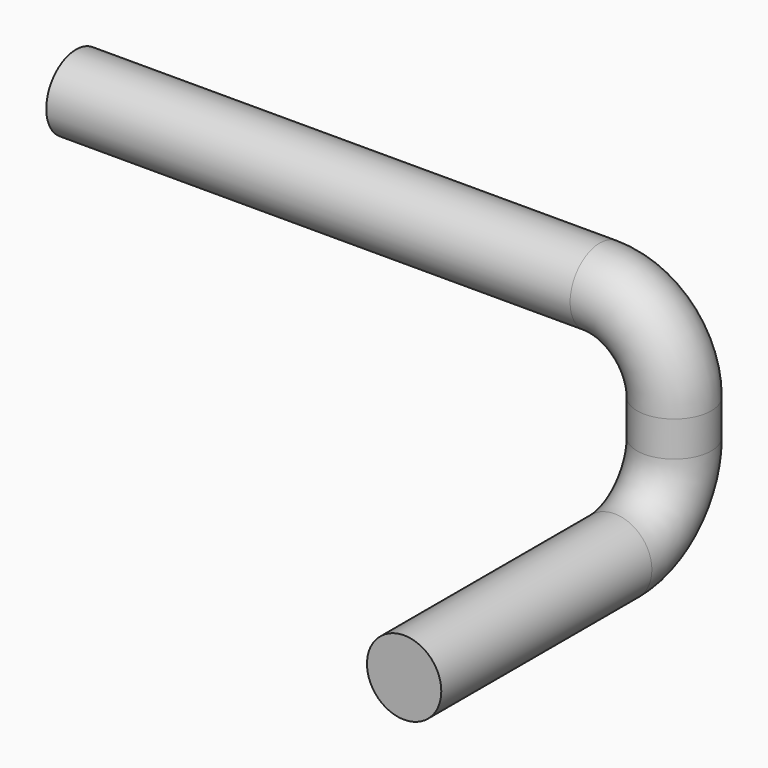
from build123d import *

# Parameters (mm, degrees)
F3_R = 10


with BuildPart() as f4:
    # F4: sweep along a path in F0, F2
    with BuildLine(Plane.YZ) as f4_path:
        Line((0, 0), (70.812, 0))
        ThreePointArc((70.812, 0), (84.9541356237, 5.8578643763), (90.812, 20))
        Line((90.812, 20), (90.812, 29.5))
    with BuildLine(Plane.XZ.offset(-90.812)) as f4_path_2:
        ThreePointArc((0, 29.5), (-5.8578643763, 43.6421356237), (-20, 49.5))
        Line((-20, 49.5), (-160.917, 49.5))
    # F3 (on Front) → F4 (sweep)
    with BuildSketch(Plane.XZ):
        Circle(F3_R)
    sweep(path=f4_path.line + f4_path_2.line)


solid = f4.part
